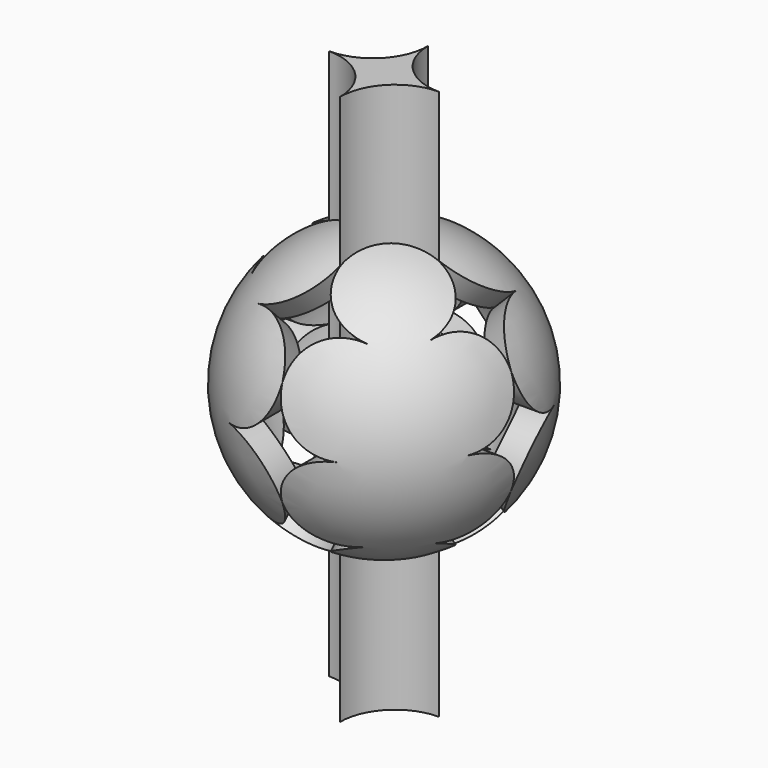
from build123d import *

# Parameters (mm, degrees)
F3_DEPTH = 50
F5_COUNT = 8
F7_COUNT = 8


with BuildPart() as f1:
    # F0 (on Front) → F1 (revolve)
    with BuildSketch(Plane.XZ):
        with BuildLine():
            Line((0, -19.999999553), (0, -25))
            ThreePointArc((0, -25), (25, 0), (0, 25))
            Line((0, 25), (0, 19.999999553))
            ThreePointArc((0, 19.999999553), (19.999999553, 0), (0, -19.999999553))
        make_face()
    revolve(axis=Axis((0, 0, 22.4999997765), (0, 0, -1)))


with BuildPart() as f3:
    # F2 (on Front) → F3 (new body, symmetric)
    with BuildSketch(Plane.XZ):
        with BuildLine():
            ThreePointArc((10, 0), (2.9289321881, 2.9289321881), (0, 10))
            ThreePointArc((0, 10), (-2.9289321881, 2.9289321881), (-10, 0))
            ThreePointArc((-10, 0), (-2.9289321881, -2.9289321881), (0, -10))
            ThreePointArc((0, -10), (2.9289321881, -2.9289321881), (10, 0))
        make_face()
    extrude(amount=F3_DEPTH, both=True)


with BuildPart() as f5_1:
    # F5: instance of F3
    add(f3.part.rotate(Axis((-1.8626e-06, 0, 0), (1, 0, 0)), 1 * 360 / F5_COUNT))


with BuildPart() as f5_2:
    # F5: instance of F3
    add(f3.part.rotate(Axis((-1.8626e-06, 0, 0), (1, 0, 0)), 2 * 360 / F5_COUNT))


with BuildPart() as f5_3:
    # F5: instance of F3
    add(f3.part.rotate(Axis((-1.8626e-06, 0, 0), (1, 0, 0)), 3 * 360 / F5_COUNT))


with BuildPart() as f5_4:
    # F5: instance of F3
    add(f3.part.rotate(Axis((-1.8626e-06, 0, 0), (1, 0, 0)), 4 * 360 / F5_COUNT))


with BuildPart() as f5_5:
    # F5: instance of F3
    add(f3.part.rotate(Axis((-1.8626e-06, 0, 0), (1, 0, 0)), 5 * 360 / F5_COUNT))


with BuildPart() as f5_6:
    # F5: instance of F3
    add(f3.part.rotate(Axis((-1.8626e-06, 0, 0), (1, 0, 0)), 6 * 360 / F5_COUNT))


with BuildPart() as f5_7:
    # F5: instance of F3
    add(f3.part.rotate(Axis((-1.8626e-06, 0, 0), (1, 0, 0)), 7 * 360 / F5_COUNT))


with BuildPart() as f7_1:
    # F7: instance of F5_2
    add(f5_2.part.rotate(Axis((0, -2.1769814193, 0), (0, 1, 0)), 1 * 360 / F7_COUNT))


with BuildPart() as f7_2:
    # F7: instance of F5_2
    add(f5_2.part.rotate(Axis((0, -2.1769814193, 0), (0, 1, 0)), 2 * 360 / F7_COUNT))


with BuildPart() as f7_3:
    # F7: instance of F5_2
    add(f5_2.part.rotate(Axis((0, -2.1769814193, 0), (0, 1, 0)), 3 * 360 / F7_COUNT))


with BuildPart() as f7_4:
    # F7: instance of F5_2
    add(f5_2.part.rotate(Axis((0, -2.1769814193, 0), (0, 1, 0)), 4 * 360 / F7_COUNT))


with BuildPart() as f7_5:
    # F7: instance of F5_2
    add(f5_2.part.rotate(Axis((0, -2.1769814193, 0), (0, 1, 0)), 5 * 360 / F7_COUNT))


with BuildPart() as f7_6:
    # F7: instance of F5_2
    add(f5_2.part.rotate(Axis((0, -2.1769814193, 0), (0, 1, 0)), 6 * 360 / F7_COUNT))


with BuildPart() as f7_7:
    # F7: instance of F5_2
    add(f5_2.part.rotate(Axis((0, -2.1769814193, 0), (0, 1, 0)), 7 * 360 / F7_COUNT))


with BuildPart() as f1_1:
    add(f1.part)

    # F8: cut F3, F5_1, F5_3, F5_5, F5_7, F7_2, F7_5, F7_6, F7_7, F7_4, F7_3, F7_1, F5_6, F5_4
    add(f3.part, mode=Mode.SUBTRACT)
    add(f5_1.part, mode=Mode.SUBTRACT)
    add(f5_3.part, mode=Mode.SUBTRACT)
    add(f5_5.part, mode=Mode.SUBTRACT)
    add(f5_7.part, mode=Mode.SUBTRACT)
    add(f7_2.part, mode=Mode.SUBTRACT)
    add(f7_5.part, mode=Mode.SUBTRACT)
    add(f7_6.part, mode=Mode.SUBTRACT)
    add(f7_7.part, mode=Mode.SUBTRACT)
    add(f7_4.part, mode=Mode.SUBTRACT)
    add(f7_3.part, mode=Mode.SUBTRACT)
    add(f7_1.part, mode=Mode.SUBTRACT)
    add(f5_6.part, mode=Mode.SUBTRACT)
    add(f5_4.part, mode=Mode.SUBTRACT)


solid = Compound([f5_2.part, f1_1.part])
